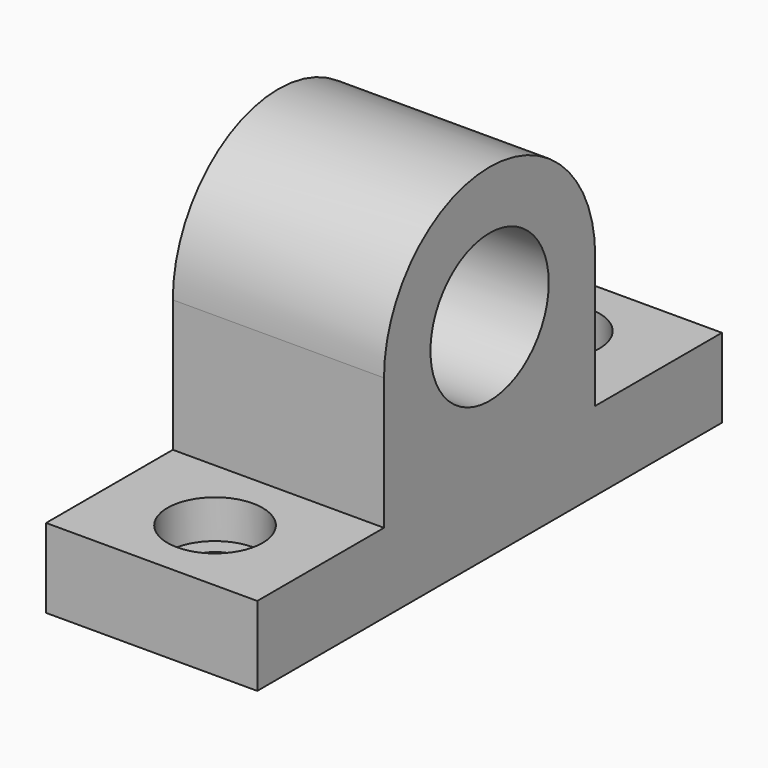
from build123d import *

# Parameters (mm, degrees)
F0_R      = 14
F0_W      = 11
F0_H      = 7.7
F1_DEPTH  = 40
F2_R      = 9
F2_R_2    = 5.5
F3_DEPTH  = 7.3
F3_FACE_R = 5.5
F4_DEPTH  = 15


with BuildPart() as f1:
    # F0 (on Right) → F1 (new body)
    with BuildSketch(Plane.YZ):
        with BuildLine():
            Line((6, 0), (0, 0))
            Line((0, 0), (0, 25))
            ThreePointArc((0, 25), (-25, 50), (-50, 25))
            Line((-50, 25), (-50, 0))
            Line((-50, 0), (-56, 0))
            Line((-56, 0), (-56, -7.3))
            Line((-56, -7.3), (-59.5, -7.3))
            Line((-59.5, -7.3), (-59.5, -15))
            Line((-59.5, -15), (9.5, -15))
            Line((9.5, -15), (9.5, -7.3))
            Line((9.5, -7.3), (6, -7.3))
            Line((6, -7.3), (6, 0))
        make_face()
        with Locations((-25, 25)):
            Circle(F0_R, mode=Mode.SUBTRACT)
        Polygon((24, 0), (6, 0), (6, -7.3), (9.5, -7.3), (20.5, -7.3), (24, -7.3), align=None)
        Polygon((30, 0), (24, 0), (24, -7.3), (20.5, -7.3), (20.5, -15), (30, -15), align=None)
        with Locations((15, -11.15)):
            Rectangle(F0_W, F0_H)
        Polygon((-56, -7.3), (-56, 0), (-74, 0), (-74, -7.3), (-70.5, -7.3), (-59.5, -7.3), align=None)
        with Locations((-65, -11.15)):
            Rectangle(F0_W, F0_H)
        Polygon((-74, -7.3), (-74, 0), (-80, 0), (-80, -15), (-70.5, -15), (-70.5, -7.3), align=None)
    extrude(amount=F1_DEPTH)

    # F2 (on face) → F3 (cut)
    with BuildSketch(Plane.XY):
        with Locations((20, -65)):
            Circle(F2_R)
        with Locations((20, -65)):
            Circle(F2_R_2, mode=Mode.SUBTRACT)
        with BuildLine():
            ThreePointArc((29, 14.737935), (26.363961, 21.101896), (20, 23.737935))
            Line((20, 23.737935), (20, 20.237935))
            ThreePointArc((20, 20.237935), (23.889087, 18.627022), (25.5, 14.737935))
            Line((25.5, 14.737935), (29, 14.737935))
        make_face()
        with BuildLine():
            Line((20, 20.237935), (20, 23.737935))
            ThreePointArc((20, 23.737935), (13.636039, 21.101896), (11, 14.737935))
            Line((11, 14.737935), (14.5, 14.737935))
            ThreePointArc((14.5, 14.737935), (16.110913, 18.627022), (20, 20.237935))
        make_face()
        with BuildLine():
            ThreePointArc((20, 5.737935), (26.363961, 8.373974), (29, 14.737935))
            Line((29, 14.737935), (25.5, 14.737935))
            ThreePointArc((25.5, 14.737935), (23.889087, 10.848848), (20, 9.237935))
            Line((20, 9.237935), (20, 5.737935))
        make_face()
        with BuildLine():
            Line((14.5, 14.737935), (11, 14.737935))
            ThreePointArc((11, 14.737935), (13.636039, 8.373974), (20, 5.737935))
            Line((20, 5.737935), (20, 9.237935))
            ThreePointArc((20, 9.237935), (16.110913, 10.848848), (14.5, 14.737935))
        make_face()
    extrude(amount=-F3_DEPTH, mode=Mode.SUBTRACT)

    # F3_face (on face) → F4 (cut)
    with BuildSketch(Plane(origin=(20, 14.737935, 0), x_dir=(1, 0, 0), z_dir=(0, 0, 1))):
        Circle(F3_FACE_R)
        with Locations((0, -79.737935)):
            Circle(F3_FACE_R)
    extrude(amount=-F4_DEPTH, mode=Mode.SUBTRACT)


solid = f1.part
